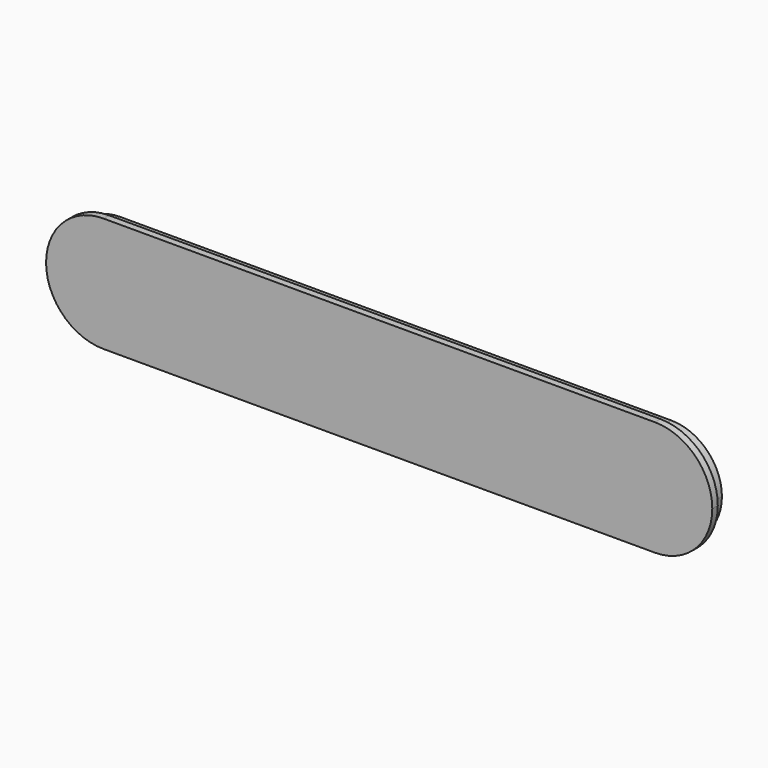
from build123d import *

# Parameters (mm, degrees)
F2_DEPTH = 1.905
F3_DEPTH = 3.81


with BuildPart() as f2:
    # F0 (on Front) → F2 (new body)
    with BuildSketch(Plane.XZ):
        with BuildLine():
            Line((-76.2, 15.875), (-76.2, 0))
            Line((-76.2, 0), (-60.325, 0))
            ThreePointArc((-60.325, 0), (-64.9746798487, 11.2253201513), (-76.2, 15.875))
        make_face()
        with BuildLine():
            Line((-60.325, 0), (-76.2, 0))
            Line((-76.2, 0), (-76.2, -15.875))
            ThreePointArc((-76.2, -15.875), (-64.9746798487, -11.2253201513), (-60.325, 0))
        make_face()
        with BuildLine():
            Line((-76.2, -15.875), (-76.2, 0))
            Line((-76.2, 0), (-76.2, 15.875))
            ThreePointArc((-76.2, 15.875), (-92.075, 0), (-76.2, -15.875))
        make_face()
        with BuildLine():
            ThreePointArc((-76.2, 15.875), (-64.9746798487, 11.2253201513), (-60.325, 0))
            Line((-60.325, 0), (60.325, 0))
            ThreePointArc((60.325, 0), (64.9746798487, 11.2253201513), (76.2, 15.875))
            Line((76.2, 15.875), (-76.2, 15.875))
        make_face()
        with BuildLine():
            Line((60.325, 0), (-60.325, 0))
            ThreePointArc((-60.325, 0), (-64.9746798487, -11.2253201513), (-76.2, -15.875))
            Line((-76.2, -15.875), (76.2, -15.875))
            ThreePointArc((76.2, -15.875), (64.9746798487, -11.2253201513), (60.325, 0))
        make_face()
        with BuildLine():
            ThreePointArc((76.2, 15.875), (64.9746798487, 11.2253201513), (60.325, 0))
            Line((60.325, 0), (76.2, 0))
            Line((76.2, 0), (76.2, 15.875))
        make_face()
        with BuildLine():
            Line((76.2, 0), (60.325, 0))
            ThreePointArc((60.325, 0), (64.9746798487, -11.2253201513), (76.2, -15.875))
            Line((76.2, -15.875), (76.2, 0))
        make_face()
        with BuildLine():
            Line((76.2, 0), (76.2, -15.875))
            ThreePointArc((76.2, -15.875), (87.4253201513, -11.2253201513), (92.075, 0))
            ThreePointArc((92.075, 0), (87.4253201513, 11.2253201513), (76.2, 15.875))
            Line((76.2, 15.875), (76.2, 0))
        make_face()
    extrude(amount=F2_DEPTH)

    # F1 (on Front) → F3 (join)
    with BuildSketch(Plane.XZ):
        with BuildLine():
            ThreePointArc((76.2, -13.97), (62.23, 0), (76.2, 13.97))
            Line((76.2, 13.97), (-76.2, 13.97))
            ThreePointArc((-76.2, 13.97), (-66.3217182668, 9.8782817332), (-62.23, 0))
            ThreePointArc((-62.23, 0), (-66.3217182668, -9.8782817332), (-76.2, -13.97))
            Line((-76.2, -13.97), (76.2, -13.97))
        make_face()
        with BuildLine():
            ThreePointArc((90.17, 0), (86.0782817332, 9.8782817332), (76.2, 13.97))
            Line((76.2, 13.97), (76.2, -13.97))
            ThreePointArc((76.2, -13.97), (86.0782817332, -9.8782817332), (90.17, 0))
        make_face()
        with BuildLine():
            Line((76.2, -13.97), (76.2, 13.97))
            ThreePointArc((76.2, 13.97), (62.23, 0), (76.2, -13.97))
        make_face()
        with BuildLine():
            ThreePointArc((-62.23, 0), (-66.3217182668, 9.8782817332), (-76.2, 13.97))
            Line((-76.2, 13.97), (-76.2, -13.97))
            ThreePointArc((-76.2, -13.97), (-66.3217182668, -9.8782817332), (-62.23, 0))
        make_face()
        with BuildLine():
            Line((-76.2, -13.97), (-76.2, 13.97))
            ThreePointArc((-76.2, 13.97), (-90.17, 0), (-76.2, -13.97))
        make_face()
    extrude(amount=-F3_DEPTH)


solid = f2.part
